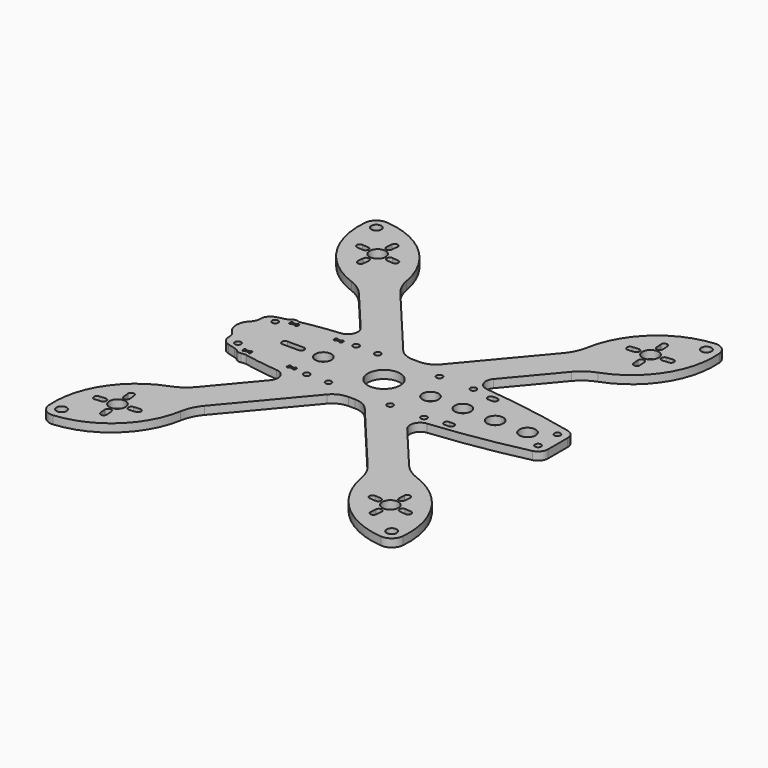
from build123d import *

# Parameters (mm, degrees)
F0_R     = 2.5
F0_R_2   = 4
F0_R_3   = 1.5
F1_DEPTH = 4
F2_W     = 2
F2_H     = 3
F2_R     = 4
F2_R_2   = 8
F3_DEPTH = 25
F5_DEPTH = 25
F6_R     = 8
F7_DEPTH = 4
F8_R     = 5


with BuildPart() as f1:
    # F0 (on Top) → F1 (new body)
    with BuildSketch(Plane.XY):
        with BuildLine():
            Line((1.6756577273, 20), (-1.6756577273, 20))
            ThreePointArc((-1.6756577273, 20), (-5.9018403447, 20.9369221296), (-9.3361021585, 23.5721239031))
            Line((-9.3361021585, 23.5721239031), (-40.2979444004, 60.4710106282))
            ThreePointArc((-40.2979444004, 60.4710106282), (-43.1035548937, 64.8751345109), (-44.673492919, 69.85540077))
            ThreePointArc((-44.673492919, 69.85540077), (-57.2225239155, 92.7410140417), (-81.1073729473, 103.2644859261))
            ThreePointArc((-81.1073729473, 103.2644859261), (-85.4907520883, 101.8839109348), (-87.6115188432, 97.8068595038))
            ThreePointArc((-87.6115188432, 97.8068595038), (-81.3954826511, 72.4574932823), (-61.0366696327, 56.1250652247))
            ThreePointArc((-61.0366696327, 56.1250652247), (-56.4046816858, 53.7141639254), (-52.5546554903, 50.1864088732))
            Line((-52.5546554903, 50.1864088732), (-33.8735241533, 27.9231034887))
            ThreePointArc((-33.8735241533, 27.9231034887), (-33.0856989492, 22.7924917516), (-37.2749919647, 19.7275823926))
            ThreePointArc((-37.2749919647, 19.7275823926), (-51.4427885658, 17.8245111306), (-65.3650910401, 14.581420849))
            ThreePointArc((-65.3650910401, 14.581420849), (-67.9890760334, 12.7858868279), (-69, 9.7713765195))
            Line((-69, 9.7713765195), (-69, 0))
            Line((-69, 0), (-69, -9.7713765195))
            ThreePointArc((-69, -9.7713765195), (-67.9890760334, -12.7858868279), (-65.3650910401, -14.581420849))
            ThreePointArc((-65.3650910401, -14.581420849), (-51.4427885658, -17.8245111306), (-37.2749919647, -19.7275823926))
            ThreePointArc((-37.2749919647, -19.7275823926), (-33.0856989492, -22.7924917516), (-33.8735241533, -27.9231034887))
            Line((-33.8735241533, -27.9231034887), (-52.5546554903, -50.1864088732))
            ThreePointArc((-52.5546554903, -50.1864088732), (-56.4046816858, -53.7141639254), (-61.0366696327, -56.1250652247))
            ThreePointArc((-61.0366696327, -56.1250652247), (-81.3954826511, -72.4574932823), (-87.6115188432, -97.8068595038))
            ThreePointArc((-87.6115188432, -97.8068595038), (-85.4907520883, -101.8839109348), (-81.1073729473, -103.2644859261))
            ThreePointArc((-81.1073729473, -103.2644859261), (-57.2225239155, -92.7410140417), (-44.673492919, -69.85540077))
            ThreePointArc((-44.673492919, -69.85540077), (-43.1035548937, -64.8751345109), (-40.2979444004, -60.4710106282))
            Line((-40.2979444004, -60.4710106282), (-9.3361021585, -23.5721239031))
            ThreePointArc((-9.3361021585, -23.5721239031), (-5.9018403447, -20.9369221296), (-1.6756577273, -20))
            Line((-1.6756577273, -20), (1.6756577273, -20))
            ThreePointArc((1.6756577273, -20), (5.9018403447, -20.9369221296), (9.3361021585, -23.5721239031))
            Line((9.3361021585, -23.5721239031), (40.2979444004, -60.4710106282))
            ThreePointArc((40.2979444004, -60.4710106282), (43.1035548937, -64.8751345109), (44.673492919, -69.85540077))
            ThreePointArc((44.673492919, -69.85540077), (57.2225239155, -92.7410140417), (81.1073729473, -103.2644859261))
            ThreePointArc((81.1073729473, -103.2644859261), (85.4907520883, -101.8839109348), (87.6115188432, -97.8068595038))
            ThreePointArc((87.6115188432, -97.8068595038), (81.3954826511, -72.4574932823), (61.0366696327, -56.1250652247))
            ThreePointArc((61.0366696327, -56.1250652247), (56.4046816858, -53.7141639254), (52.5546554903, -50.1864088732))
            Line((52.5546554903, -50.1864088732), (32.8009321928, -26.6448381664))
            ThreePointArc((32.8009321928, -26.6448381664), (31.9983993762, -21.5500543478), (36.1252811868, -18.4565567157))
            ThreePointArc((36.1252811868, -18.4565567157), (59.2339410173, -15.3877629276), (82.1109477821, -10.9077834683))
            ThreePointArc((82.1109477821, -10.9077834683), (84.9086275667, -9.1508793287), (86, -6.0327660298))
            Line((86, -6.0327660298), (86, 0))
            Line((86, 0), (86, 6.0327660298))
            ThreePointArc((86, 6.0327660298), (84.9086275667, 9.1508793287), (82.1109477821, 10.9077834683))
            ThreePointArc((82.1109477821, 10.9077834683), (59.2339410173, 15.3877629276), (36.1252811868, 18.4565567157))
            ThreePointArc((36.1252811868, 18.4565567157), (31.9983993762, 21.5500543478), (32.8009321928, 26.6448381664))
            Line((32.8009321928, 26.6448381664), (52.5546554903, 50.1864088732))
            ThreePointArc((52.5546554903, 50.1864088732), (56.4046816858, 53.7141639254), (61.0366696327, 56.1250652247))
            ThreePointArc((61.0366696327, 56.1250652247), (81.3954826511, 72.4574932823), (87.6115188432, 97.8068595038))
            ThreePointArc((87.6115188432, 97.8068595038), (85.4907520883, 101.8839109348), (81.1073729473, 103.2644859261))
            ThreePointArc((81.1073729473, 103.2644859261), (57.2225239155, 92.7410140417), (44.673492919, 69.85540077))
            ThreePointArc((44.673492919, 69.85540077), (43.1035548937, 64.8751345109), (40.2979444004, 60.4710106282))
            Line((40.2979444004, 60.4710106282), (9.3361021585, 23.5721239031))
            ThreePointArc((9.3361021585, 23.5721239031), (5.9018403447, 20.9369221296), (1.6756577273, 20))
        make_face()
        with Locations((-81.6340264302, -97.2876442761)):
            Circle(F0_R, mode=Mode.SUBTRACT)
        with BuildLine():
            Line((-65.4318946421, -86.779198451), (-65.1704274138, -89.7677825452))
            ThreePointArc((-65.1704274138, -89.7677825452), (-66.5339858469, -91.3928082065), (-68.1590115081, -90.0292497735))
            Line((-68.1590115081, -90.0292497735), (-68.4204787364, -87.0406656792))
            ThreePointArc((-68.4204787364, -87.0406656792), (-67.0569203033, -85.415640018), (-65.4318946421, -86.779198451))
        make_face(mode=Mode.SUBTRACT)
        with BuildLine():
            ThreePointArc((-76.8258150348, -82.7569381307), (-78.4508406961, -81.3933796977), (-77.0872822631, -79.7683540365))
            Line((-77.0872822631, -79.7683540365), (-74.0986981688, -79.5068868082))
            ThreePointArc((-74.0986981688, -79.5068868082), (-72.4736725075, -80.8704452412), (-73.8372309406, -82.4954709025))
            Line((-73.8372309406, -82.4954709025), (-76.8258150348, -82.7569381307))
        make_face(mode=Mode.SUBTRACT)
        with Locations((-67.4926990171, -80.4346665275)):
            Circle(F0_R_2, mode=Mode.SUBTRACT)
        with BuildLine():
            ThreePointArc((-58.1595829993, -78.1123949243), (-56.5345573381, -79.4759533573), (-57.8981157711, -81.1009790185))
            Line((-57.8981157711, -81.1009790185), (-60.8866998654, -81.3624462468))
            ThreePointArc((-60.8866998654, -81.3624462468), (-62.5117255266, -79.9988878138), (-61.1481670936, -78.3738621525))
            Line((-61.1481670936, -78.3738621525), (-58.1595829993, -78.1123949243))
        make_face(mode=Mode.SUBTRACT)
        with BuildLine():
            Line((-66.8263865261, -70.8400832815), (-66.5649192978, -73.8286673758))
            ThreePointArc((-66.5649192978, -73.8286673758), (-67.9284777308, -75.453693037), (-69.5535033921, -74.090134604))
            Line((-69.5535033921, -74.090134604), (-69.8149706203, -71.1015505097))
            ThreePointArc((-69.8149706203, -71.1015505097), (-68.4514121873, -69.4765248485), (-66.8263865261, -70.8400832815))
        make_face(mode=Mode.SUBTRACT)
        with Locations((-63, -11.5)):
            Circle(F0_R_3, mode=Mode.SUBTRACT)
        with Locations((-26, -15.25)):
            Circle(F0_R_3, mode=Mode.SUBTRACT)
        with Locations((-15.25, -15.25)):
            Circle(F0_R_3, mode=Mode.SUBTRACT)
        with BuildLine():
            Line((60.8866998654, -81.3624462468), (57.8981157711, -81.1009790185))
            ThreePointArc((57.8981157711, -81.1009790185), (56.5345573381, -79.4759533573), (58.1595829993, -78.1123949243))
            Line((58.1595829993, -78.1123949243), (61.1481670936, -78.3738621525))
            ThreePointArc((61.1481670936, -78.3738621525), (62.5117255266, -79.9988878138), (60.8866998654, -81.3624462468))
        make_face(mode=Mode.SUBTRACT)
        with Locations((81.6340264302, -97.2876442761)):
            Circle(F0_R, mode=Mode.SUBTRACT)
        with BuildLine():
            Line((65.1704274138, -89.7677825452), (65.4318946421, -86.779198451))
            ThreePointArc((65.4318946421, -86.779198451), (67.0569203033, -85.415640018), (68.4204787364, -87.0406656792))
            Line((68.4204787364, -87.0406656792), (68.1590115081, -90.0292497735))
            ThreePointArc((68.1590115081, -90.0292497735), (66.5339858469, -91.3928082065), (65.1704274138, -89.7677825452))
        make_face(mode=Mode.SUBTRACT)
        with Locations((67.4926990171, -80.4346665275)):
            Circle(F0_R_2, mode=Mode.SUBTRACT)
        with BuildLine():
            Line((76.8258150348, -82.7569381307), (73.8372309406, -82.4954709025))
            ThreePointArc((73.8372309406, -82.4954709025), (72.4736725075, -80.8704452412), (74.0986981688, -79.5068868082))
            Line((74.0986981688, -79.5068868082), (77.0872822631, -79.7683540365))
            ThreePointArc((77.0872822631, -79.7683540365), (78.4508406961, -81.3933796977), (76.8258150348, -82.7569381307))
        make_face(mode=Mode.SUBTRACT)
        with BuildLine():
            Line((69.8149706203, -71.1015505097), (69.5535033921, -74.090134604))
            ThreePointArc((69.5535033921, -74.090134604), (67.9284777308, -75.453693037), (66.5649192978, -73.8286673758))
            Line((66.5649192978, -73.8286673758), (66.8263865261, -70.8400832815))
            ThreePointArc((66.8263865261, -70.8400832815), (68.4514121873, -69.4765248485), (69.8149706203, -71.1015505097))
        make_face(mode=Mode.SUBTRACT)
        with Locations((15.25, -15.25)):
            Circle(F0_R_3, mode=Mode.SUBTRACT)
        with Locations((32, -15.25)):
            Circle(F0_R_3, mode=Mode.SUBTRACT)
        with Locations((81, -6)):
            Circle(F0_R_3, mode=Mode.SUBTRACT)
        with Locations((-63, 11.5)):
            Circle(F0_R_3, mode=Mode.SUBTRACT)
        with Locations((-26, 15.25)):
            Circle(F0_R_3, mode=Mode.SUBTRACT)
        with Locations((-15.25, 15.25)):
            Circle(F0_R_3, mode=Mode.SUBTRACT)
        with BuildLine():
            ThreePointArc((-69.5535033921, 74.090134604), (-67.9284777308, 75.453693037), (-66.5649192978, 73.8286673758))
            Line((-66.5649192978, 73.8286673758), (-66.8263865261, 70.8400832815))
            ThreePointArc((-66.8263865261, 70.8400832815), (-68.4514121873, 69.4765248485), (-69.8149706203, 71.1015505097))
            Line((-69.8149706203, 71.1015505097), (-69.5535033921, 74.090134604))
        make_face(mode=Mode.SUBTRACT)
        with BuildLine():
            ThreePointArc((-73.8372309406, 82.4954709025), (-72.4736725075, 80.8704452412), (-74.0986981688, 79.5068868082))
            Line((-74.0986981688, 79.5068868082), (-77.0872822631, 79.7683540365))
            ThreePointArc((-77.0872822631, 79.7683540365), (-78.4508406961, 81.3933796977), (-76.8258150348, 82.7569381307))
            Line((-76.8258150348, 82.7569381307), (-73.8372309406, 82.4954709025))
        make_face(mode=Mode.SUBTRACT)
        with Locations((-67.4926990171, 80.4346665275)):
            Circle(F0_R_2, mode=Mode.SUBTRACT)
        with BuildLine():
            ThreePointArc((-65.4318946421, 86.779198451), (-67.0569203033, 85.415640018), (-68.4204787364, 87.0406656792))
            Line((-68.4204787364, 87.0406656792), (-68.1590115081, 90.0292497735))
            ThreePointArc((-68.1590115081, 90.0292497735), (-66.5339858469, 91.3928082065), (-65.1704274138, 89.7677825452))
            Line((-65.1704274138, 89.7677825452), (-65.4318946421, 86.779198451))
        make_face(mode=Mode.SUBTRACT)
        with Locations((-81.6340264302, 97.2876442761)):
            Circle(F0_R, mode=Mode.SUBTRACT)
        with BuildLine():
            ThreePointArc((-61.1481670936, 78.3738621525), (-62.5117255266, 79.9988878138), (-60.8866998654, 81.3624462468))
            Line((-60.8866998654, 81.3624462468), (-57.8981157711, 81.1009790185))
            ThreePointArc((-57.8981157711, 81.1009790185), (-56.5345573381, 79.4759533573), (-58.1595829993, 78.1123949243))
            Line((-58.1595829993, 78.1123949243), (-61.1481670936, 78.3738621525))
        make_face(mode=Mode.SUBTRACT)
        with Locations((15.25, 15.25)):
            Circle(F0_R_3, mode=Mode.SUBTRACT)
        with Locations((32, 15.25)):
            Circle(F0_R_3, mode=Mode.SUBTRACT)
        with Locations((81, 6)):
            Circle(F0_R_3, mode=Mode.SUBTRACT)
        with BuildLine():
            ThreePointArc((66.5649192978, 73.8286673758), (67.9284777308, 75.453693037), (69.5535033921, 74.090134604))
            Line((69.5535033921, 74.090134604), (69.8149706203, 71.1015505097))
            ThreePointArc((69.8149706203, 71.1015505097), (68.4514121873, 69.4765248485), (66.8263865261, 70.8400832815))
            Line((66.8263865261, 70.8400832815), (66.5649192978, 73.8286673758))
        make_face(mode=Mode.SUBTRACT)
        with BuildLine():
            ThreePointArc((60.8866998654, 81.3624462468), (62.5117255266, 79.9988878138), (61.1481670936, 78.3738621525))
            Line((61.1481670936, 78.3738621525), (58.1595829993, 78.1123949243))
            ThreePointArc((58.1595829993, 78.1123949243), (56.5345573381, 79.4759533573), (57.8981157711, 81.1009790185))
            Line((57.8981157711, 81.1009790185), (60.8866998654, 81.3624462468))
        make_face(mode=Mode.SUBTRACT)
        with Locations((67.4926990171, 80.4346665275)):
            Circle(F0_R_2, mode=Mode.SUBTRACT)
        with BuildLine():
            ThreePointArc((74.0986981688, 79.5068868082), (72.4736725075, 80.8704452412), (73.8372309406, 82.4954709025))
            Line((73.8372309406, 82.4954709025), (76.8258150348, 82.7569381307))
            ThreePointArc((76.8258150348, 82.7569381307), (78.4508406961, 81.3933796977), (77.0872822631, 79.7683540365))
            Line((77.0872822631, 79.7683540365), (74.0986981688, 79.5068868082))
        make_face(mode=Mode.SUBTRACT)
        with BuildLine():
            ThreePointArc((68.4204787364, 87.0406656792), (67.0569203033, 85.415640018), (65.4318946421, 86.779198451))
            Line((65.4318946421, 86.779198451), (65.1704274138, 89.7677825452))
            ThreePointArc((65.1704274138, 89.7677825452), (66.5339858469, 91.3928082065), (68.1590115081, 90.0292497735))
            Line((68.1590115081, 90.0292497735), (68.4204787364, 87.0406656792))
        make_face(mode=Mode.SUBTRACT)
        with Locations((81.6340264302, 97.2876442761)):
            Circle(F0_R, mode=Mode.SUBTRACT)
    extrude(amount=F1_DEPTH)

    # F2 (on Top) → F3 (cut)
    with BuildSketch(Plane.XY):
        with BuildLine():
            Line((-41, 1.5), (-49, 1.5))
            ThreePointArc((-49, 1.5), (-50.5, 0), (-49, -1.5))
            Line((-49, -1.5), (-41, -1.5))
            ThreePointArc((-41, -1.5), (-39.5, 0), (-41, 1.5))
        make_face()
        with Locations((43, 13.5)):
            Rectangle(F2_W, F2_H)
        with BuildLine():
            Line((42, 12), (42, 15))
            ThreePointArc((42, 15), (40.5, 13.5), (42, 12))
        make_face()
        with BuildLine():
            ThreePointArc((44, 12), (45.5, 13.5), (44, 15))
            Line((44, 15), (44, 12))
        make_face()
        with Locations((43, -13.5)):
            Rectangle(F2_W, F2_H)
        with BuildLine():
            Line((42, -15), (42, -12))
            ThreePointArc((42, -12), (40.5, -13.5), (42, -15))
        make_face()
        with BuildLine():
            ThreePointArc((44, -15), (45.5, -13.5), (44, -12))
            Line((44, -12), (44, -15))
        make_face()
        with Locations((55, 0)):
            Circle(F2_R)
        with Locations((71, 0)):
            Circle(F2_R)
        with Locations((39, 0)):
            Circle(F2_R)
        Circle(F2_R_2)
        with Locations((-30, 0)):
            Circle(F2_R)
        with Locations((23, 0)):
            Circle(F2_R)
    extrude(amount=F3_DEPTH, mode=Mode.SUBTRACT)

    # F4 (on face) → F5 (cut)
    with BuildSketch(Plane.XY.offset(4)):
        with BuildLine():
            ThreePointArc((-58, 14), (-57.4999999919, 13.5000000081), (-57, 14.0000000161))
            Line((-57, 14.0000000161), (-55, 14.0000000161))
            ThreePointArc((-55, 14.0000000161), (-54.5, 13.5000000161), (-54, 14.0000000161))
            Line((-54, 14.0000000161), (-54, 15.0000000161))
            ThreePointArc((-54, 15.0000000161), (-54.5, 15.5000000161), (-55, 15.0000000161))
            Line((-55, 15.0000000161), (-57, 15.0000000161))
            ThreePointArc((-57, 15.0000000161), (-57.5000000081, 15.5000000081), (-58, 15))
            Line((-58, 15), (-58, 14))
        make_face()
        with BuildLine():
            ThreePointArc((-58, -15), (-57.4999999919, -15.4999999919), (-57, -14.9999999839))
            Line((-57, -14.9999999839), (-55, -14.9999999839))
            ThreePointArc((-55, -14.9999999839), (-54.5, -15.4999999839), (-54, -14.9999999839))
            Line((-54, -14.9999999839), (-54, -13.9999999839))
            ThreePointArc((-54, -13.9999999839), (-54.5, -13.4999999839), (-55, -13.9999999839))
            Line((-55, -13.9999999839), (-57, -13.9999999839))
            ThreePointArc((-57, -13.9999999839), (-57.5000000081, -13.4999999919), (-58, -14))
            Line((-58, -14), (-58, -15))
        make_face()
        with BuildLine():
            ThreePointArc((-36, 14), (-35.4999999919, 13.5000000081), (-35, 14.0000000161))
            Line((-35, 14.0000000161), (-33, 14.0000000161))
            ThreePointArc((-33, 14.0000000161), (-32.5, 13.5000000161), (-32, 14.0000000161))
            Line((-32, 14.0000000161), (-32, 15.0000000161))
            ThreePointArc((-32, 15.0000000161), (-32.5, 15.5000000161), (-33, 15.0000000161))
            Line((-33, 15.0000000161), (-35, 15.0000000161))
            ThreePointArc((-35, 15.0000000161), (-35.5000000081, 15.5000000081), (-36, 15))
            Line((-36, 15), (-36, 14))
        make_face()
        with BuildLine():
            ThreePointArc((-36, -15), (-35.4999999919, -15.4999999919), (-35, -14.9999999839))
            Line((-35, -14.9999999839), (-33, -14.9999999839))
            ThreePointArc((-33, -14.9999999839), (-32.5, -15.4999999839), (-32, -14.9999999839))
            Line((-32, -14.9999999839), (-32, -13.9999999839))
            ThreePointArc((-32, -13.9999999839), (-32.5, -13.4999999839), (-33, -13.9999999839))
            Line((-33, -13.9999999839), (-35, -13.9999999839))
            ThreePointArc((-35, -13.9999999839), (-35.5000000081, -13.4999999919), (-36, -14))
            Line((-36, -14), (-36, -15))
        make_face()
    extrude(amount=-F5_DEPTH, mode=Mode.SUBTRACT)

    # F6 (on face) → F7 (join)
    with BuildSketch(Plane.XY.offset(4)):
        with Locations((-65, 0)):
            Circle(F6_R)
        with BuildLine():
            Line((-55.15, -15.8529360974), (-59.85, -15.8529360974))
            ThreePointArc((-59.85, -15.8529360974), (-57.5, -17.4999999919), (-55.15, -15.8529360974))
        make_face()
        with BuildLine():
            Line((-59.85, 15.8529361135), (-55.15, 15.8529361135))
            ThreePointArc((-55.15, 15.8529361135), (-57.5, 17.5000000081), (-59.85, 15.8529361135))
        make_face()
    extrude(amount=-F7_DEPTH)

    # F8
    f8_edges = [f1.edges().sort_by_distance(p)[0] for p in [
        (-69, -6.928203, 2),
        (-69, 6.928203, 2),
        (-59.766919, 16.054078, 2),
        (-55.916353, 16.934441, 2),
        (-55.916353, -16.934441, 2),
        (-59.766919, -16.054078, 2),
    ]]
    fillet(f8_edges, radius=F8_R)


solid = f1.part
